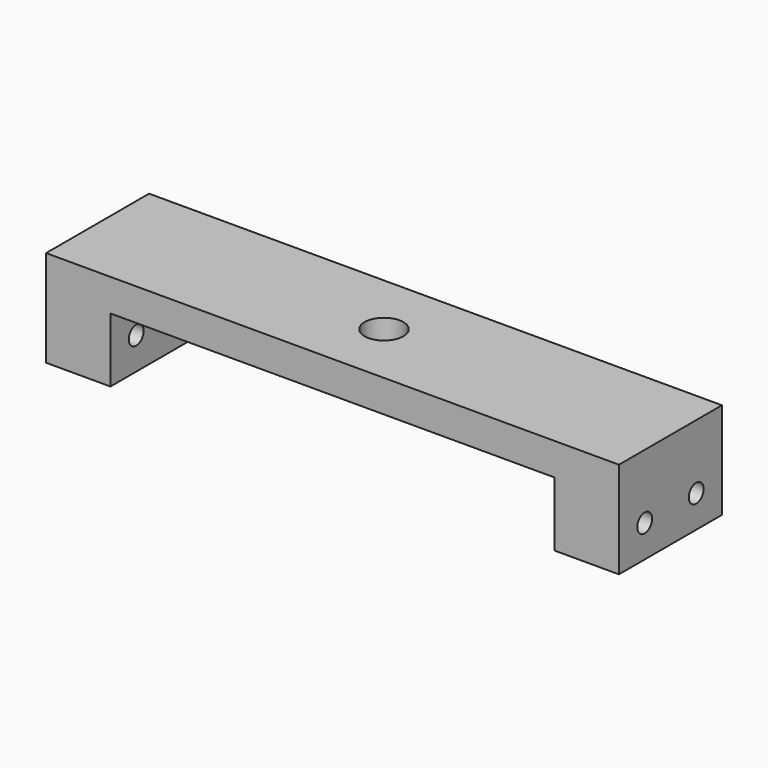
from build123d import *

# Parameters (mm, degrees)
F0_W     = 113.03
F0_H     = 25.4
F1_DEPTH = 6.35
F2_R     = 3.81
F3_DEPTH = 6.351
F4_W     = 12.7
F4_H     = 25.4
F5_DEPTH = 12.7
F6_R     = 1.8288
F7_DEPTH = 254


with BuildPart() as f1:
    # F0 (on Top) → F1 (new body)
    with BuildSketch(Plane.XY):
        Rectangle(F0_W, F0_H)
    extrude(amount=F1_DEPTH)

    # F2 (on face) → F3 (cut, through all)
    with BuildSketch(Plane.XY.offset(6.35)):
        Circle(F2_R)
    extrude(amount=-F3_DEPTH, mode=Mode.SUBTRACT)

    # F4 (on face) → F5 (join)
    with BuildSketch(Plane(origin=(0, 0, 0), x_dir=(1, 0, 0), z_dir=(0, 0, -1))):
        with Locations((-50.165, 0)):
            Rectangle(F4_W, F4_H)
        with Locations((50.165, 0)):
            Rectangle(F4_W, F4_H)
    extrude(amount=F5_DEPTH)

    # F6 (on face) → F7 (cut)
    with BuildSketch(Plane(origin=(-56.515, 0, 0), x_dir=(0, -1, 0), z_dir=(-1, 0, 0))):
        with Locations((-6.35, -6.35)):
            Circle(F6_R)
        with Locations((6.35, -6.35)):
            Circle(F6_R)
    extrude(amount=-F7_DEPTH, mode=Mode.SUBTRACT)


solid = f1.part
